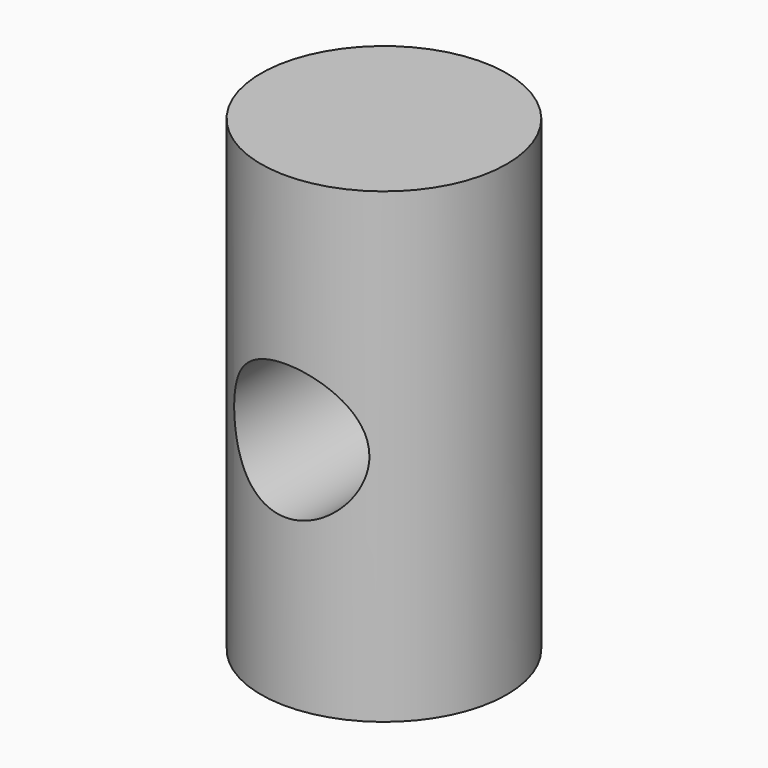
from build123d import *

# Parameters (mm, degrees)
F0_R     = 2.54
F1_DEPTH = 9.652
F2_R     = 1.397
F3_DEPTH = 12.7


with BuildPart() as f1:
    # F0 (on Top) → F1 (new body)
    with BuildSketch(Plane.XY):
        Circle(F0_R)
    extrude(amount=F1_DEPTH)

    # F2 (on Front) → F3 (cut, symmetric)
    with BuildSketch(Plane.XZ):
        with Locations((0, 4.826)):
            Circle(F2_R)
    extrude(amount=F3_DEPTH, both=True, mode=Mode.SUBTRACT)


solid = f1.part
